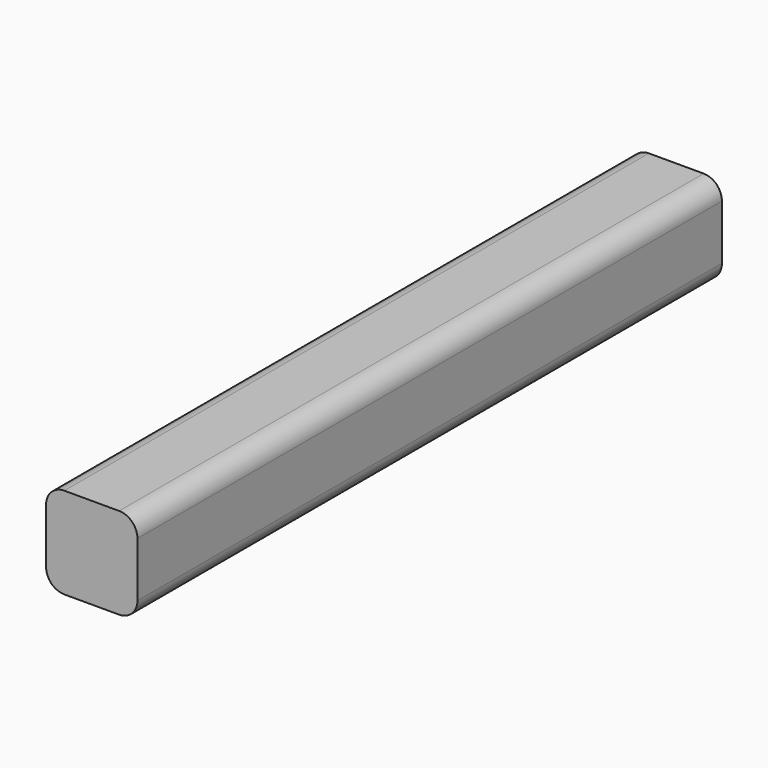
from build123d import *

# Parameters (mm, degrees)
F0_W = 2.5
F0_H = 2.5
F3_R = 0.5


with BuildPart() as f2:
    # F2: sweep along a path in F1
    with BuildLine(Plane.XY) as f2_path:
        Line((0, 0), (0, 20))
    # F0 (on Front) → F2 (sweep)
    with BuildSketch(Plane.XZ):
        Rectangle(F0_W, F0_H)
    sweep(path=f2_path.line)

    # F3
    f3_edges = [f2.edges().sort_by_distance(p)[0] for p in [
        (-1.25, 10, -1.25),
        (-1.25, 10, 1.25),
        (1.25, 10, 1.25),
        (1.25, 10, -1.25),
    ]]
    fillet(f3_edges, radius=F3_R)


solid = f2.part
